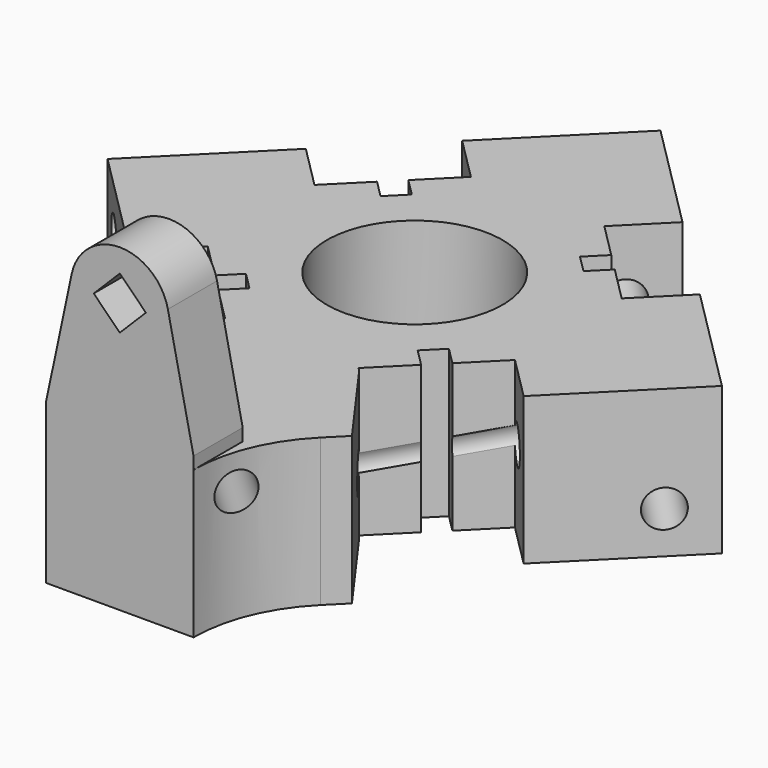
from build123d import *

# Parameters (mm, degrees)
PAD081_DEPTH          = 12
SKETCH230_R           = 7.15
POCKET159_DEPTH       = 20
POLARPATTERN_COUNT    = 4
PAD106_DEPTH          = 12
PAD105_DEPTH          = 5
SKETCH266_R           = 1.5
POCKET160_DEPTH       = 30
FILLET005_R           = 12
POLARPATTERN002_COUNT = 4
POCKET162_DEPTH       = 5
POCKET178_DEPTH       = 13
CHAMFER044_SIZE       = 0.5


with BuildPart() as part:
    # Sketch232 → Pad081 (new body)
    with BuildSketch(Plane.XY.offset(-10)):
        Polygon((0, 0), (0, 25), (8.9644660941, 16.0355339059), (5.4289321881, 12.5), (8.2573593129, 9.6715728753), (6.8431457505, 8.2573593129), (8.2573593129, 6.8431457505), (9.6715728753, 8.2573593129), (12.5, 5.4289321881), (16.0355339059, 8.9644660941), (25, 0), align=None)
    pad081 = extrude(amount=-PAD081_DEPTH)

    # Sketch230 → Pocket159 (cut)
    with BuildSketch(Plane.XY.offset(-23)):
        Circle(SKETCH230_R)
    pocket159 = extrude(amount=POCKET159_DEPTH, mode=Mode.SUBTRACT)

    # PolarPattern: Pad081, Pocket159 ×4 about axis
    polarpattern_axis = Axis((0, 0, -10), (0, 0, 1))
    for i in range(1, POLARPATTERN_COUNT):
        add(pad081.rotate(polarpattern_axis, i * 360 / POLARPATTERN_COUNT))
        add(pocket159.rotate(polarpattern_axis, i * 360 / POLARPATTERN_COUNT), mode=Mode.SUBTRACT)

    # Sketch297 → Pad106 (join)
    with BuildSketch(Plane.XY.offset(-22)):
        Polygon((-11.965, -19.035), (-5.43, -12.5), (5.43, -12.5), (11.965, -19.035), (6, -25), (-6, -25), align=None)
    extrude(amount=PAD106_DEPTH)

    # Sketch296 → Pad105 (join)
    with BuildSketch(Plane.XZ.offset(25)):
        with BuildLine():
            Line((-3.9127822424, 0.8307437172), (-6, -9))
            Line((-6, -22), (-6, -9))
            Line((6, -22), (-6, -22))
            Line((6, -9), (6, -22))
            Line((3.9127822424, 0.8307437172), (6, -9))
            ThreePointArc((3.9127822424, 0.8307437172), (0, 4), (-3.9127822424, 0.8307437172))
        make_face()
        Polygon((-2.1213203436, 0), (0, -2.1213203436), (2.1213203436, 0), (0, 2.1213203436), align=None, mode=Mode.SUBTRACT)
    extrude(amount=PAD105_DEPTH)

    # Sketch266 (on DatumPlane) → Pocket160 (cut, symmetric)
    with BuildSketch(Plane(origin=(2.8284271247, -2.8284271247, 0), x_dir=(0.7071067812, 0.7071067812, 0), z_dir=(0.7002252666, -0.7002252666, -0.139173101))):
        with Locations((14, -16.5)):
            Circle(SKETCH266_R)
    pocket160 = extrude(amount=POCKET160_DEPTH, both=True, mode=Mode.SUBTRACT)

    # Fillet005
    fillet005_edges = [part.edges().sort_by_distance(p)[0] for p in [
        (-6, -25, -16),
        (6, -25, -16),
    ]]
    fillet(fillet005_edges, radius=FILLET005_R)

    # PolarPattern002: Pocket160 ×4 about axis
    polarpattern002_axis = Axis((0, 0, 0), (0, 0, 1))
    for i in range(1, POLARPATTERN002_COUNT):
        add(pocket160.rotate(polarpattern002_axis, i * 360 / POLARPATTERN002_COUNT), mode=Mode.SUBTRACT)

    # Sketch272 → Pocket162 (cut, symmetric)
    with BuildSketch(Plane.YZ):
        Polygon((20.3, -23), (26, -16.3), (26, -23), align=None)
    extrude(amount=POCKET162_DEPTH, both=True, mode=Mode.SUBTRACT)

    # Sketch303 → Pocket178 (cut)
    with BuildSketch(Plane.XY.offset(-10)):
        Polygon((-5.5, -12.5), (-12, -19), (-10.9393398282, -20.0606601718), align=None)
        Polygon((5.5, -12.5), (12, -19), (10.9393398282, -20.0606601718), align=None)
    extrude(amount=-POCKET178_DEPTH, mode=Mode.SUBTRACT)

    # Chamfer044
    chamfer044_edges = [part.edges().sort_by_distance(p)[0] for p in [
        (-5.055813, 5.055813, -22),
    ]]
    chamfer(chamfer044_edges, length=CHAMFER044_SIZE)


solid = part.part
